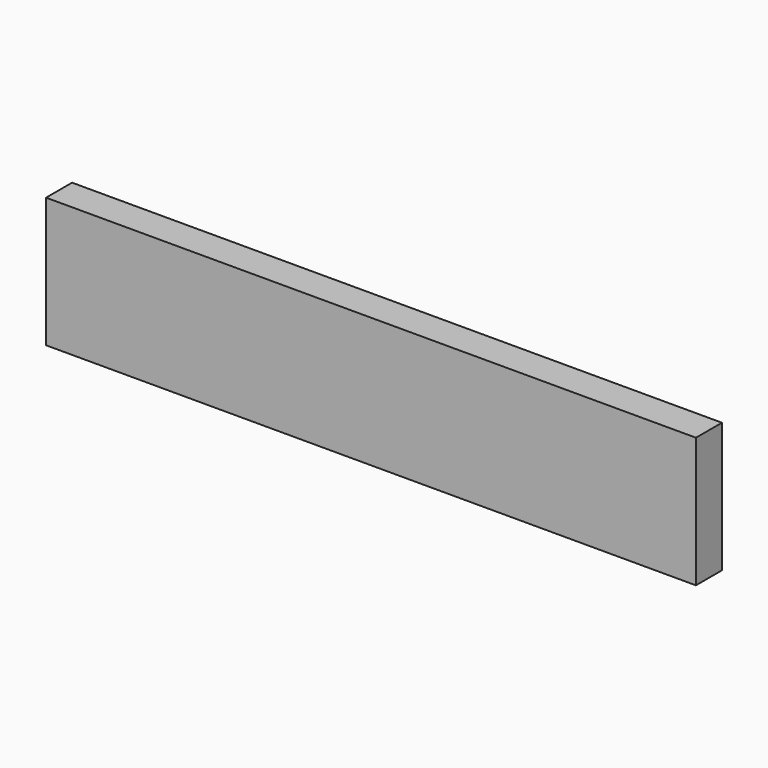
from build123d import *

# Parameters (mm, degrees)
F0_W     = 508
F0_H     = 101.6
F1_DEPTH = 25.4
F3_DEPTH = 25.4


with BuildPart() as f1:
    # F0 (on Front) → F1 (new body)
    with BuildSketch(Plane.XZ):
        with Locations((254, 50.8)):
            Rectangle(F0_W, F0_H)
    extrude(amount=F1_DEPTH)

    # F2 (on face) → F3 (cut)
    with BuildSketch(Plane.YZ.offset(508)):
        Polygon((-25.4, 0), (0, 101.6), (-25.4, 101.6), align=None)
    extrude(amount=F3_DEPTH, mode=Mode.SUBTRACT)


solid = f1.part
